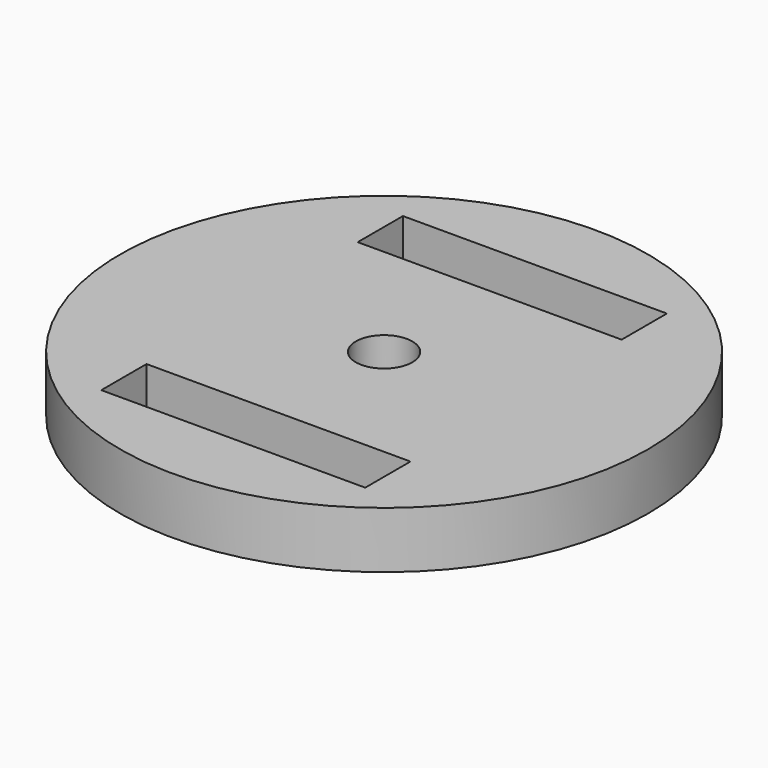
from build123d import *

# Parameters (mm, degrees)
F0_R     = 14
F0_W     = 14
F0_H     = 3
F0_R_2   = 1.5
F1_DEPTH = 3


with BuildPart() as f1:
    # F0 (on Top) → F1 (new body)
    with BuildSketch(Plane.XY):
        Circle(F0_R)
        with Locations((0, -8.5)):
            Rectangle(F0_W, F0_H, mode=Mode.SUBTRACT)
        Circle(F0_R_2, mode=Mode.SUBTRACT)
        with Locations((0, 8.5)):
            Rectangle(F0_W, F0_H, mode=Mode.SUBTRACT)
    extrude(amount=F1_DEPTH)


solid = f1.part
